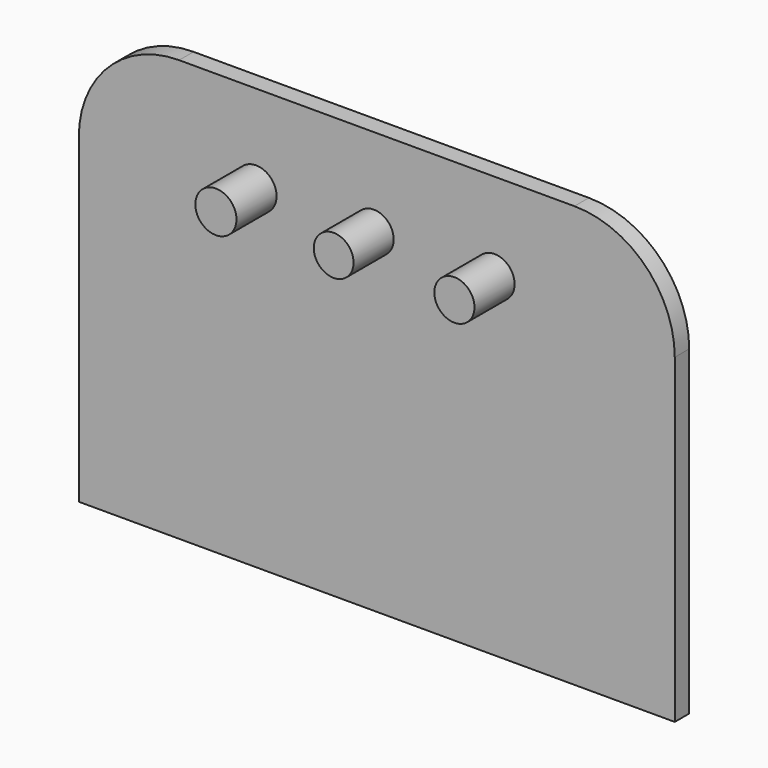
from build123d import *

# Parameters (mm, degrees)
F1_DEPTH = 9
F2_R     = 10.245135
F2_R_2   = 9.909059
F2_R_3   = 10
F3_DEPTH = 25


with BuildPart() as f1:
    # F0 (on Front) → F1 (new body)
    with BuildSketch(Plane.XZ):
        with BuildLine():
            Line((59.825139, 143.360692), (-137.174861, 143.360692))
            ThreePointArc((-137.174861, 143.360692), (-172.5302, 128.716031), (-187.174861, 93.360692))
            Line((-187.174861, 93.360692), (-187.174861, -66.639308))
            Line((-187.174861, -66.639308), (109.825139, -66.639308))
            Line((109.825139, -66.639308), (109.825139, 93.360692))
            ThreePointArc((109.825139, 93.360692), (95.180478, 128.716031), (59.825139, 143.360692))
        make_face()
    extrude(amount=F1_DEPTH)

    # F2 (on face) → F3 (join)
    with BuildSketch(Plane.XZ.offset(9)):
        with Locations((-98.846367, 99.441908)):
            Circle(F2_R)
        with Locations((-40.151973, 99.441908)):
            Circle(F2_R_2)
        with Locations((20.015922, 99.441908)):
            Circle(F2_R_3)
    extrude(amount=F3_DEPTH)


solid = f1.part
